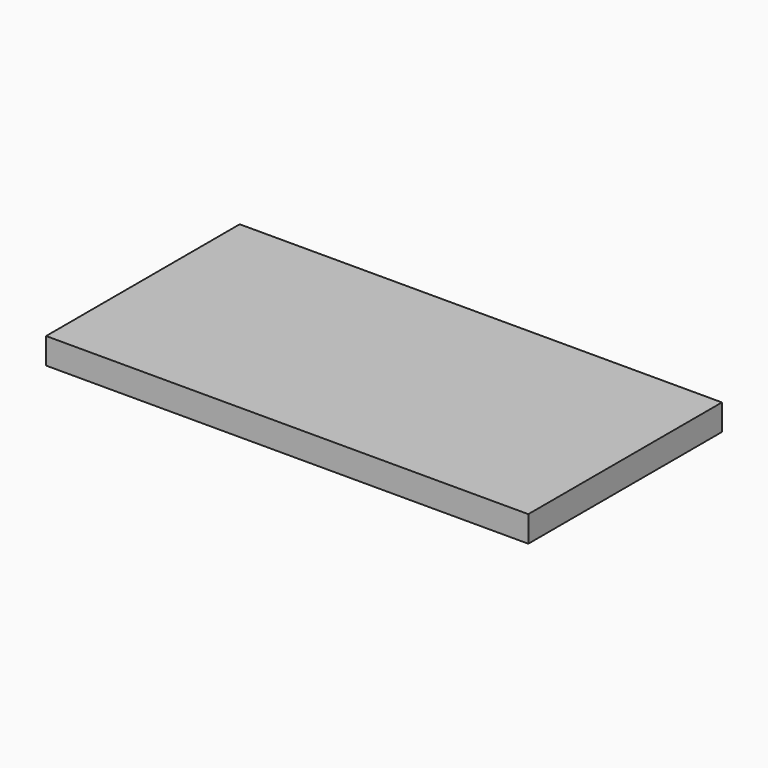
from build123d import *

# Parameters (mm, degrees)
F0_W     = 132.5789391994
F0_H     = 79.0697522461
F1_DEPTH = 8.5103549063
F2_W     = 132.5789391994
F2_H     = 79.0697522461
F3_DEPTH = 4.4518793002
F4_DEPTH = 157.5544029474


with BuildPart() as f1:
    # F0 (on Top) → F1 (new body)
    with BuildSketch(Plane.XY):
        with Locations((-0.0331550837, -27.2014793009)):
            Rectangle(F0_W, F0_H)
    extrude(amount=F1_DEPTH)

    # F2 (on face) → F3 (join)
    with BuildSketch(Plane.XY.offset(8.5103549063)):
        with Locations((-0.0331550837, -27.2014793009)):
            Rectangle(F2_W, F2_H)
    extrude(amount=-F3_DEPTH)

    # F4 (add): a face of the model
    f4_faces = [f1.faces().sort_by_distance(p)[0] for p in [
        (66.2563145161, -27.2014793009, 4.2551774532),
    ]]
    extrude(f4_faces, amount=-F4_DEPTH)


solid = f1.part
